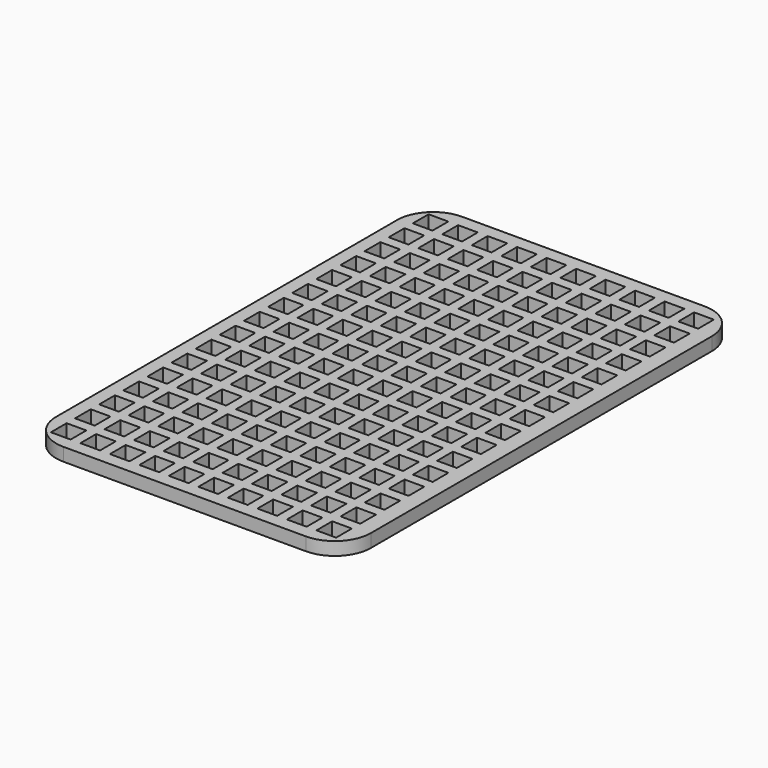
from build123d import *

# Parameters (mm, degrees)
F0_W     = 3
F0_H     = 3
F1_DEPTH = 2


with BuildPart() as f1:
    # F0 (on Top) → F1 (new body)
    with BuildSketch(Plane.XY):
        with BuildLine():
            Line((-18.5, -38), (18.5, -38))
            ThreePointArc((18.5, -38), (22.389087, -36.389087), (24, -32.5))
            Line((24, -32.5), (24, 32.5))
            ThreePointArc((24, 32.5), (22.389087, 36.389087), (18.5, 38))
            Line((18.5, 38), (-18.5, 38))
            ThreePointArc((-18.5, 38), (-22.389087, 36.389087), (-24, 32.5))
            Line((-24, 32.5), (-24, -32.5))
            ThreePointArc((-24, -32.5), (-22.389087, -36.389087), (-18.5, -38))
        make_face()
        with Locations((-20.5, -34.5)):
            Rectangle(F0_W, F0_H, mode=Mode.SUBTRACT)
        with Locations((-20.5, -29.9)):
            Rectangle(F0_W, F0_H, mode=Mode.SUBTRACT)
        with Locations((-16, -34.5)):
            Rectangle(F0_W, F0_H, mode=Mode.SUBTRACT)
        with Locations((-16, -29.9)):
            Rectangle(F0_W, F0_H, mode=Mode.SUBTRACT)
        with Locations((-20.5, -25.3)):
            Rectangle(F0_W, F0_H, mode=Mode.SUBTRACT)
        with Locations((-20.5, -20.7)):
            Rectangle(F0_W, F0_H, mode=Mode.SUBTRACT)
        with Locations((-16, -25.3)):
            Rectangle(F0_W, F0_H, mode=Mode.SUBTRACT)
        with Locations((-16, -20.7)):
            Rectangle(F0_W, F0_H, mode=Mode.SUBTRACT)
        with Locations((-11.5, -34.5)):
            Rectangle(F0_W, F0_H, mode=Mode.SUBTRACT)
        with Locations((-7, -34.5)):
            Rectangle(F0_W, F0_H, mode=Mode.SUBTRACT)
        with Locations((-11.5, -29.9)):
            Rectangle(F0_W, F0_H, mode=Mode.SUBTRACT)
        with Locations((-7, -29.9)):
            Rectangle(F0_W, F0_H, mode=Mode.SUBTRACT)
        with Locations((-2.5, -34.5)):
            Rectangle(F0_W, F0_H, mode=Mode.SUBTRACT)
        with Locations((-2.5, -29.9)):
            Rectangle(F0_W, F0_H, mode=Mode.SUBTRACT)
        with Locations((-11.5, -25.3)):
            Rectangle(F0_W, F0_H, mode=Mode.SUBTRACT)
        with Locations((-7, -25.3)):
            Rectangle(F0_W, F0_H, mode=Mode.SUBTRACT)
        with Locations((-11.5, -20.7)):
            Rectangle(F0_W, F0_H, mode=Mode.SUBTRACT)
        with Locations((-7, -20.7)):
            Rectangle(F0_W, F0_H, mode=Mode.SUBTRACT)
        with Locations((-2.5, -25.3)):
            Rectangle(F0_W, F0_H, mode=Mode.SUBTRACT)
        with Locations((-2.5, -20.7)):
            Rectangle(F0_W, F0_H, mode=Mode.SUBTRACT)
        with Locations((-20.5, -16.1)):
            Rectangle(F0_W, F0_H, mode=Mode.SUBTRACT)
        with Locations((-20.5, -11.5)):
            Rectangle(F0_W, F0_H, mode=Mode.SUBTRACT)
        with Locations((-16, -16.1)):
            Rectangle(F0_W, F0_H, mode=Mode.SUBTRACT)
        with Locations((-16, -11.5)):
            Rectangle(F0_W, F0_H, mode=Mode.SUBTRACT)
        with Locations((-20.5, -6.9)):
            Rectangle(F0_W, F0_H, mode=Mode.SUBTRACT)
        with Locations((-20.5, -2.3)):
            Rectangle(F0_W, F0_H, mode=Mode.SUBTRACT)
        with Locations((-16, -6.9)):
            Rectangle(F0_W, F0_H, mode=Mode.SUBTRACT)
        with Locations((-16, -2.3)):
            Rectangle(F0_W, F0_H, mode=Mode.SUBTRACT)
        with Locations((-11.5, -16.1)):
            Rectangle(F0_W, F0_H, mode=Mode.SUBTRACT)
        with Locations((-7, -16.1)):
            Rectangle(F0_W, F0_H, mode=Mode.SUBTRACT)
        with Locations((-11.5, -11.5)):
            Rectangle(F0_W, F0_H, mode=Mode.SUBTRACT)
        with Locations((-7, -11.5)):
            Rectangle(F0_W, F0_H, mode=Mode.SUBTRACT)
        with Locations((-2.5, -16.1)):
            Rectangle(F0_W, F0_H, mode=Mode.SUBTRACT)
        with Locations((-2.5, -11.5)):
            Rectangle(F0_W, F0_H, mode=Mode.SUBTRACT)
        with Locations((-11.5, -6.9)):
            Rectangle(F0_W, F0_H, mode=Mode.SUBTRACT)
        with Locations((-7, -6.9)):
            Rectangle(F0_W, F0_H, mode=Mode.SUBTRACT)
        with Locations((-11.5, -2.3)):
            Rectangle(F0_W, F0_H, mode=Mode.SUBTRACT)
        with Locations((-7, -2.3)):
            Rectangle(F0_W, F0_H, mode=Mode.SUBTRACT)
        with Locations((-2.5, -6.9)):
            Rectangle(F0_W, F0_H, mode=Mode.SUBTRACT)
        with Locations((-2.5, -2.3)):
            Rectangle(F0_W, F0_H, mode=Mode.SUBTRACT)
        with Locations((2, -34.5)):
            Rectangle(F0_W, F0_H, mode=Mode.SUBTRACT)
        with Locations((2, -29.9)):
            Rectangle(F0_W, F0_H, mode=Mode.SUBTRACT)
        with Locations((6.5, -34.5)):
            Rectangle(F0_W, F0_H, mode=Mode.SUBTRACT)
        with Locations((11, -34.5)):
            Rectangle(F0_W, F0_H, mode=Mode.SUBTRACT)
        with Locations((6.5, -29.9)):
            Rectangle(F0_W, F0_H, mode=Mode.SUBTRACT)
        with Locations((11, -29.9)):
            Rectangle(F0_W, F0_H, mode=Mode.SUBTRACT)
        with Locations((2, -25.3)):
            Rectangle(F0_W, F0_H, mode=Mode.SUBTRACT)
        with Locations((2, -20.7)):
            Rectangle(F0_W, F0_H, mode=Mode.SUBTRACT)
        with Locations((6.5, -25.3)):
            Rectangle(F0_W, F0_H, mode=Mode.SUBTRACT)
        with Locations((11, -25.3)):
            Rectangle(F0_W, F0_H, mode=Mode.SUBTRACT)
        with Locations((6.5, -20.7)):
            Rectangle(F0_W, F0_H, mode=Mode.SUBTRACT)
        with Locations((11, -20.7)):
            Rectangle(F0_W, F0_H, mode=Mode.SUBTRACT)
        with Locations((15.5, -34.5)):
            Rectangle(F0_W, F0_H, mode=Mode.SUBTRACT)
        with Locations((15.5, -29.9)):
            Rectangle(F0_W, F0_H, mode=Mode.SUBTRACT)
        with Locations((20, -34.5)):
            Rectangle(F0_W, F0_H, mode=Mode.SUBTRACT)
        with Locations((20, -29.9)):
            Rectangle(F0_W, F0_H, mode=Mode.SUBTRACT)
        with Locations((15.5, -25.3)):
            Rectangle(F0_W, F0_H, mode=Mode.SUBTRACT)
        with Locations((15.5, -20.7)):
            Rectangle(F0_W, F0_H, mode=Mode.SUBTRACT)
        with Locations((20, -25.3)):
            Rectangle(F0_W, F0_H, mode=Mode.SUBTRACT)
        with Locations((20, -20.7)):
            Rectangle(F0_W, F0_H, mode=Mode.SUBTRACT)
        with Locations((2, -16.1)):
            Rectangle(F0_W, F0_H, mode=Mode.SUBTRACT)
        with Locations((2, -11.5)):
            Rectangle(F0_W, F0_H, mode=Mode.SUBTRACT)
        with Locations((6.5, -16.1)):
            Rectangle(F0_W, F0_H, mode=Mode.SUBTRACT)
        with Locations((11, -16.1)):
            Rectangle(F0_W, F0_H, mode=Mode.SUBTRACT)
        with Locations((6.5, -11.5)):
            Rectangle(F0_W, F0_H, mode=Mode.SUBTRACT)
        with Locations((11, -11.5)):
            Rectangle(F0_W, F0_H, mode=Mode.SUBTRACT)
        with Locations((2, -6.9)):
            Rectangle(F0_W, F0_H, mode=Mode.SUBTRACT)
        with Locations((2, -2.3)):
            Rectangle(F0_W, F0_H, mode=Mode.SUBTRACT)
        with Locations((6.5, -6.9)):
            Rectangle(F0_W, F0_H, mode=Mode.SUBTRACT)
        with Locations((11, -6.9)):
            Rectangle(F0_W, F0_H, mode=Mode.SUBTRACT)
        with Locations((6.5, -2.3)):
            Rectangle(F0_W, F0_H, mode=Mode.SUBTRACT)
        with Locations((11, -2.3)):
            Rectangle(F0_W, F0_H, mode=Mode.SUBTRACT)
        with Locations((15.5, -16.1)):
            Rectangle(F0_W, F0_H, mode=Mode.SUBTRACT)
        with Locations((15.5, -11.5)):
            Rectangle(F0_W, F0_H, mode=Mode.SUBTRACT)
        with Locations((20, -16.1)):
            Rectangle(F0_W, F0_H, mode=Mode.SUBTRACT)
        with Locations((20, -11.5)):
            Rectangle(F0_W, F0_H, mode=Mode.SUBTRACT)
        with Locations((15.5, -6.9)):
            Rectangle(F0_W, F0_H, mode=Mode.SUBTRACT)
        with Locations((15.5, -2.3)):
            Rectangle(F0_W, F0_H, mode=Mode.SUBTRACT)
        with Locations((20, -6.9)):
            Rectangle(F0_W, F0_H, mode=Mode.SUBTRACT)
        with Locations((20, -2.3)):
            Rectangle(F0_W, F0_H, mode=Mode.SUBTRACT)
        with Locations((-20.5, 2.3)):
            Rectangle(F0_W, F0_H, mode=Mode.SUBTRACT)
        with Locations((-20.5, 6.9)):
            Rectangle(F0_W, F0_H, mode=Mode.SUBTRACT)
        with Locations((-16, 2.3)):
            Rectangle(F0_W, F0_H, mode=Mode.SUBTRACT)
        with Locations((-16, 6.9)):
            Rectangle(F0_W, F0_H, mode=Mode.SUBTRACT)
        with Locations((-20.5, 11.5)):
            Rectangle(F0_W, F0_H, mode=Mode.SUBTRACT)
        with Locations((-20.5, 16.1)):
            Rectangle(F0_W, F0_H, mode=Mode.SUBTRACT)
        with Locations((-16, 11.5)):
            Rectangle(F0_W, F0_H, mode=Mode.SUBTRACT)
        with Locations((-16, 16.1)):
            Rectangle(F0_W, F0_H, mode=Mode.SUBTRACT)
        with Locations((-11.5, 2.3)):
            Rectangle(F0_W, F0_H, mode=Mode.SUBTRACT)
        with Locations((-7, 2.3)):
            Rectangle(F0_W, F0_H, mode=Mode.SUBTRACT)
        with Locations((-11.5, 6.9)):
            Rectangle(F0_W, F0_H, mode=Mode.SUBTRACT)
        with Locations((-7, 6.9)):
            Rectangle(F0_W, F0_H, mode=Mode.SUBTRACT)
        with Locations((-2.5, 2.3)):
            Rectangle(F0_W, F0_H, mode=Mode.SUBTRACT)
        with Locations((-2.5, 6.9)):
            Rectangle(F0_W, F0_H, mode=Mode.SUBTRACT)
        with Locations((-11.5, 11.5)):
            Rectangle(F0_W, F0_H, mode=Mode.SUBTRACT)
        with Locations((-7, 11.5)):
            Rectangle(F0_W, F0_H, mode=Mode.SUBTRACT)
        with Locations((-11.5, 16.1)):
            Rectangle(F0_W, F0_H, mode=Mode.SUBTRACT)
        with Locations((-7, 16.1)):
            Rectangle(F0_W, F0_H, mode=Mode.SUBTRACT)
        with Locations((-2.5, 11.5)):
            Rectangle(F0_W, F0_H, mode=Mode.SUBTRACT)
        with Locations((-2.5, 16.1)):
            Rectangle(F0_W, F0_H, mode=Mode.SUBTRACT)
        with Locations((-20.5, 20.7)):
            Rectangle(F0_W, F0_H, mode=Mode.SUBTRACT)
        with Locations((-20.5, 25.3)):
            Rectangle(F0_W, F0_H, mode=Mode.SUBTRACT)
        with Locations((-16, 20.7)):
            Rectangle(F0_W, F0_H, mode=Mode.SUBTRACT)
        with Locations((-16, 25.3)):
            Rectangle(F0_W, F0_H, mode=Mode.SUBTRACT)
        with Locations((-20.5, 29.9)):
            Rectangle(F0_W, F0_H, mode=Mode.SUBTRACT)
        with Locations((-20.5, 34.5)):
            Rectangle(F0_W, F0_H, mode=Mode.SUBTRACT)
        with Locations((-16, 29.9)):
            Rectangle(F0_W, F0_H, mode=Mode.SUBTRACT)
        with Locations((-16, 34.5)):
            Rectangle(F0_W, F0_H, mode=Mode.SUBTRACT)
        with Locations((-11.5, 20.7)):
            Rectangle(F0_W, F0_H, mode=Mode.SUBTRACT)
        with Locations((-7, 20.7)):
            Rectangle(F0_W, F0_H, mode=Mode.SUBTRACT)
        with Locations((-11.5, 25.3)):
            Rectangle(F0_W, F0_H, mode=Mode.SUBTRACT)
        with Locations((-7, 25.3)):
            Rectangle(F0_W, F0_H, mode=Mode.SUBTRACT)
        with Locations((-2.5, 20.7)):
            Rectangle(F0_W, F0_H, mode=Mode.SUBTRACT)
        with Locations((-2.5, 25.3)):
            Rectangle(F0_W, F0_H, mode=Mode.SUBTRACT)
        with Locations((-11.5, 29.9)):
            Rectangle(F0_W, F0_H, mode=Mode.SUBTRACT)
        with Locations((-7, 29.9)):
            Rectangle(F0_W, F0_H, mode=Mode.SUBTRACT)
        with Locations((-11.5, 34.5)):
            Rectangle(F0_W, F0_H, mode=Mode.SUBTRACT)
        with Locations((-7, 34.5)):
            Rectangle(F0_W, F0_H, mode=Mode.SUBTRACT)
        with Locations((-2.5, 29.9)):
            Rectangle(F0_W, F0_H, mode=Mode.SUBTRACT)
        with Locations((-2.5, 34.5)):
            Rectangle(F0_W, F0_H, mode=Mode.SUBTRACT)
        with Locations((2, 2.3)):
            Rectangle(F0_W, F0_H, mode=Mode.SUBTRACT)
        with Locations((2, 6.9)):
            Rectangle(F0_W, F0_H, mode=Mode.SUBTRACT)
        with Locations((6.5, 2.3)):
            Rectangle(F0_W, F0_H, mode=Mode.SUBTRACT)
        with Locations((11, 2.3)):
            Rectangle(F0_W, F0_H, mode=Mode.SUBTRACT)
        with Locations((6.5, 6.9)):
            Rectangle(F0_W, F0_H, mode=Mode.SUBTRACT)
        with Locations((11, 6.9)):
            Rectangle(F0_W, F0_H, mode=Mode.SUBTRACT)
        with Locations((2, 11.5)):
            Rectangle(F0_W, F0_H, mode=Mode.SUBTRACT)
        with Locations((2, 16.1)):
            Rectangle(F0_W, F0_H, mode=Mode.SUBTRACT)
        with Locations((6.5, 11.5)):
            Rectangle(F0_W, F0_H, mode=Mode.SUBTRACT)
        with Locations((11, 11.5)):
            Rectangle(F0_W, F0_H, mode=Mode.SUBTRACT)
        with Locations((6.5, 16.1)):
            Rectangle(F0_W, F0_H, mode=Mode.SUBTRACT)
        with Locations((11, 16.1)):
            Rectangle(F0_W, F0_H, mode=Mode.SUBTRACT)
        with Locations((15.5, 2.3)):
            Rectangle(F0_W, F0_H, mode=Mode.SUBTRACT)
        with Locations((15.5, 6.9)):
            Rectangle(F0_W, F0_H, mode=Mode.SUBTRACT)
        with Locations((20, 2.3)):
            Rectangle(F0_W, F0_H, mode=Mode.SUBTRACT)
        with Locations((20, 6.9)):
            Rectangle(F0_W, F0_H, mode=Mode.SUBTRACT)
        with Locations((15.5, 11.5)):
            Rectangle(F0_W, F0_H, mode=Mode.SUBTRACT)
        with Locations((15.5, 16.1)):
            Rectangle(F0_W, F0_H, mode=Mode.SUBTRACT)
        with Locations((20, 11.5)):
            Rectangle(F0_W, F0_H, mode=Mode.SUBTRACT)
        with Locations((20, 16.1)):
            Rectangle(F0_W, F0_H, mode=Mode.SUBTRACT)
        with Locations((2, 20.7)):
            Rectangle(F0_W, F0_H, mode=Mode.SUBTRACT)
        with Locations((2, 25.3)):
            Rectangle(F0_W, F0_H, mode=Mode.SUBTRACT)
        with Locations((6.5, 20.7)):
            Rectangle(F0_W, F0_H, mode=Mode.SUBTRACT)
        with Locations((11, 20.7)):
            Rectangle(F0_W, F0_H, mode=Mode.SUBTRACT)
        with Locations((6.5, 25.3)):
            Rectangle(F0_W, F0_H, mode=Mode.SUBTRACT)
        with Locations((11, 25.3)):
            Rectangle(F0_W, F0_H, mode=Mode.SUBTRACT)
        with Locations((2, 29.9)):
            Rectangle(F0_W, F0_H, mode=Mode.SUBTRACT)
        with Locations((2, 34.5)):
            Rectangle(F0_W, F0_H, mode=Mode.SUBTRACT)
        with Locations((6.5, 29.9)):
            Rectangle(F0_W, F0_H, mode=Mode.SUBTRACT)
        with Locations((11, 29.9)):
            Rectangle(F0_W, F0_H, mode=Mode.SUBTRACT)
        with Locations((6.5, 34.5)):
            Rectangle(F0_W, F0_H, mode=Mode.SUBTRACT)
        with Locations((11, 34.5)):
            Rectangle(F0_W, F0_H, mode=Mode.SUBTRACT)
        with Locations((15.5, 20.7)):
            Rectangle(F0_W, F0_H, mode=Mode.SUBTRACT)
        with Locations((15.5, 25.3)):
            Rectangle(F0_W, F0_H, mode=Mode.SUBTRACT)
        with Locations((20, 20.7)):
            Rectangle(F0_W, F0_H, mode=Mode.SUBTRACT)
        with Locations((20, 25.3)):
            Rectangle(F0_W, F0_H, mode=Mode.SUBTRACT)
        with Locations((15.5, 29.9)):
            Rectangle(F0_W, F0_H, mode=Mode.SUBTRACT)
        with Locations((15.5, 34.5)):
            Rectangle(F0_W, F0_H, mode=Mode.SUBTRACT)
        with Locations((20, 29.9)):
            Rectangle(F0_W, F0_H, mode=Mode.SUBTRACT)
        with Locations((20, 34.5)):
            Rectangle(F0_W, F0_H, mode=Mode.SUBTRACT)
    extrude(amount=F1_DEPTH)


solid = f1.part
